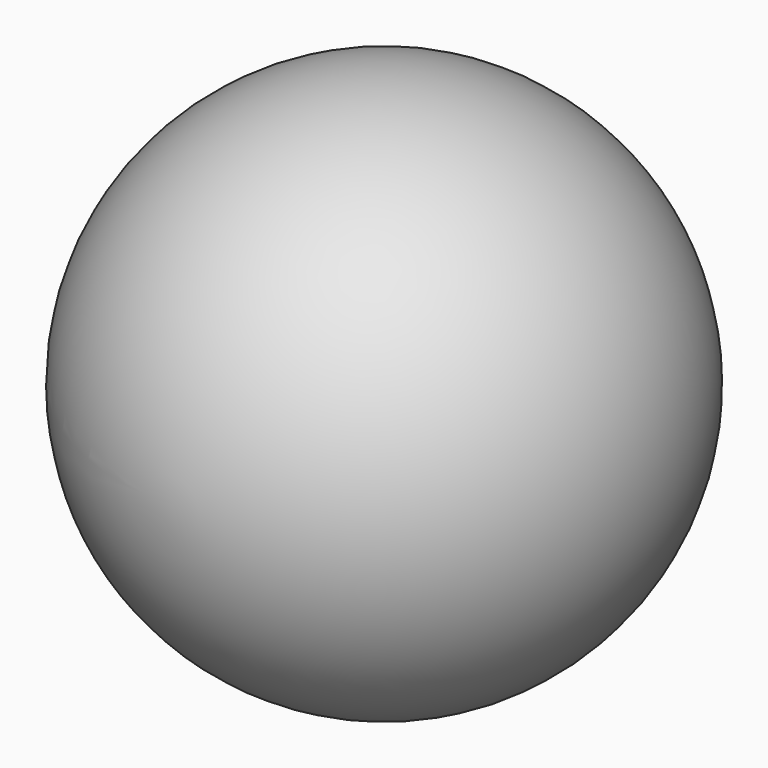
from build123d import *

# Parameters (mm, degrees)
F2_T = -2.54


with BuildPart() as f1:
    # F0 (on Top) → F1 (revolve)
    with BuildSketch(Plane.XY):
        with BuildLine():
            Line((0, -19.99996), (0, 19.99996))
            ThreePointArc((0, 19.99996), (-19.99996, 0), (0, -19.99996))
        make_face()
    revolve(axis=Axis((0, 0.596864149, 0), (0, -1, 0)))

    # F2 (hollow: no face is removed)
    offset(amount=F2_T, mode=Mode.SUBTRACT)


solid = f1.part
